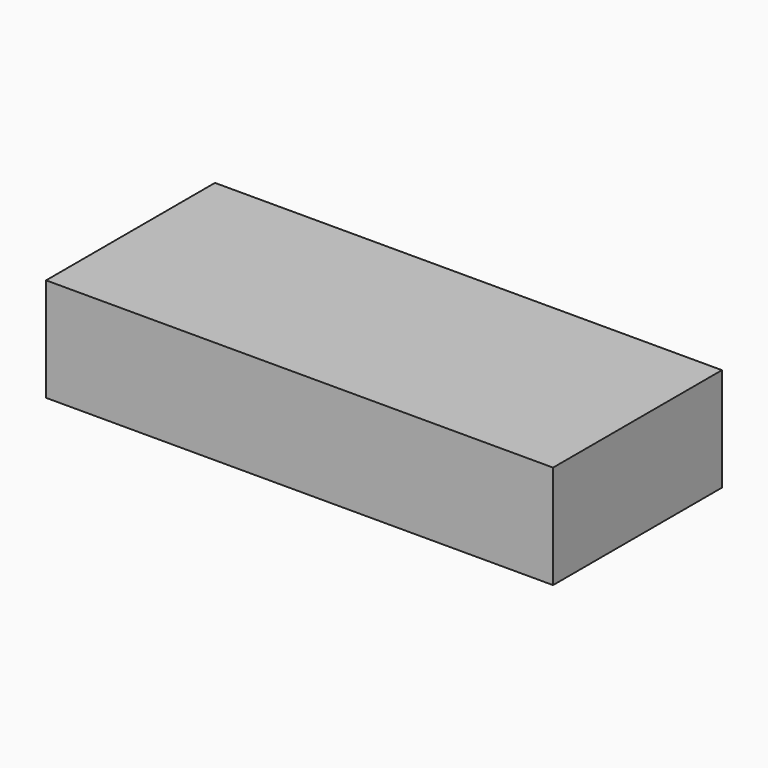
from build123d import *

# Parameters (mm, degrees)
SKETCH_W  = 62.23
SKETCH_H  = 25.908
PAD_DEPTH = 12.7


with BuildPart() as part:
    # Sketch → Pad (new body)
    with BuildSketch(Plane.XY):
        Rectangle(SKETCH_W, SKETCH_H)
    extrude(amount=PAD_DEPTH)


solid = part.part
